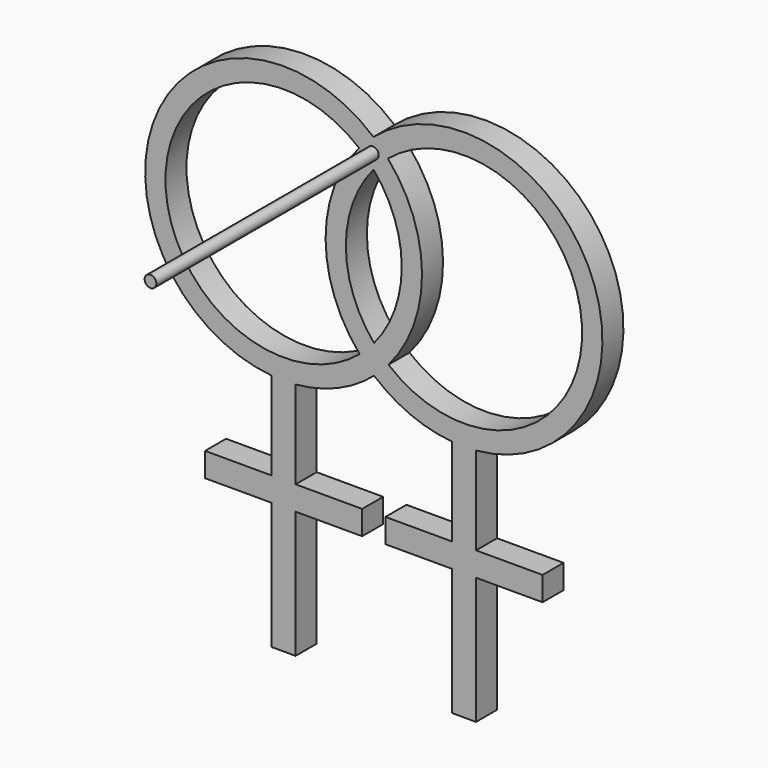
from build123d import *

# Parameters (mm, degrees)
F1_DEPTH = 1.2
F2_R     = 0.267864
F3_DEPTH = 12.7


with BuildPart() as f1:
    # F0 (on Front) → F1 (new body)
    with BuildSketch(Plane.XZ):
        with BuildLine():
            Line((-22.558661, 13.532754), (-22.558661, 17.550706))
            ThreePointArc((-22.558661, 17.550706), (-20.646676, 18.025718), (-18.973681, 19.066109))
            ThreePointArc((-18.973681, 19.066109), (-17.31198, 18.043084), (-15.41748, 17.575431))
            Line((-15.41748, 17.575431), (-15.41748, 13.55748))
            Line((-15.41748, 13.55748), (-18.455535, 13.55748))
            Line((-18.455535, 13.55748), (-18.455535, 12.45748))
            Line((-18.455535, 12.45748), (-15.41748, 12.45748))
            Line((-15.41748, 12.45748), (-15.41748, 6.657985))
            Line((-15.41748, 6.657985), (-14.31748, 6.657985))
            Line((-14.31748, 6.657985), (-14.31748, 12.45748))
            Line((-14.31748, 12.45748), (-11.279425, 12.45748))
            Line((-11.279425, 12.45748), (-11.279425, 13.55748))
            Line((-11.279425, 13.55748), (-14.31748, 13.55748))
            Line((-14.31748, 13.55748), (-14.31748, 17.575431))
            ThreePointArc((-14.31748, 17.575431), (-9.043176, 26.336733), (-19.002461, 28.658661))
            ThreePointArc((-19.002461, 28.658661), (-28.940326, 26.294523), (-23.658661, 17.550706))
            Line((-23.658661, 17.550706), (-23.658661, 13.532754))
            Line((-23.658661, 13.532754), (-26.696716, 13.532754))
            Line((-26.696716, 13.532754), (-26.696716, 12.432754))
            Line((-26.696716, 12.432754), (-23.658661, 12.432754))
            Line((-23.658661, 12.432754), (-23.658661, 6.63326))
            Line((-23.658661, 6.63326), (-22.558661, 6.63326))
            Line((-22.558661, 6.63326), (-22.558661, 12.432754))
            Line((-22.558661, 12.432754), (-19.520607, 12.432754))
            Line((-19.520607, 12.432754), (-19.520607, 13.532754))
            Line((-19.520607, 13.532754), (-22.558661, 13.532754))
        make_face()
        with BuildLine():
            ThreePointArc((-19.634369, 19.720153), (-28.505536, 23.833831), (-19.659213, 28.000664))
            ThreePointArc((-19.659213, 28.000664), (-21.190733, 23.855777), (-19.634369, 19.720153))
        make_face(mode=Mode.SUBTRACT)
        with BuildLine():
            ThreePointArc((-18.977614, 20.377132), (-20.264355, 23.858556), (-18.998527, 27.347639))
            ThreePointArc((-18.998527, 27.347639), (-17.711786, 23.866214), (-18.977614, 20.377132))
        make_face(mode=Mode.SUBTRACT)
        with BuildLine():
            ThreePointArc((-18.341772, 28.004617), (-9.470605, 23.89094), (-18.316929, 19.724106))
            ThreePointArc((-18.316929, 19.724106), (-16.785408, 23.868994), (-18.341772, 28.004617))
        make_face(mode=Mode.SUBTRACT)
    extrude(amount=F1_DEPTH)

    # F2 (on face) → F3 (join)
    with BuildSketch(Plane.XZ.offset(1.2)):
        with Locations((-19.03018, 28.004617)):
            Circle(F2_R)
    extrude(amount=F3_DEPTH)


solid = f1.part
